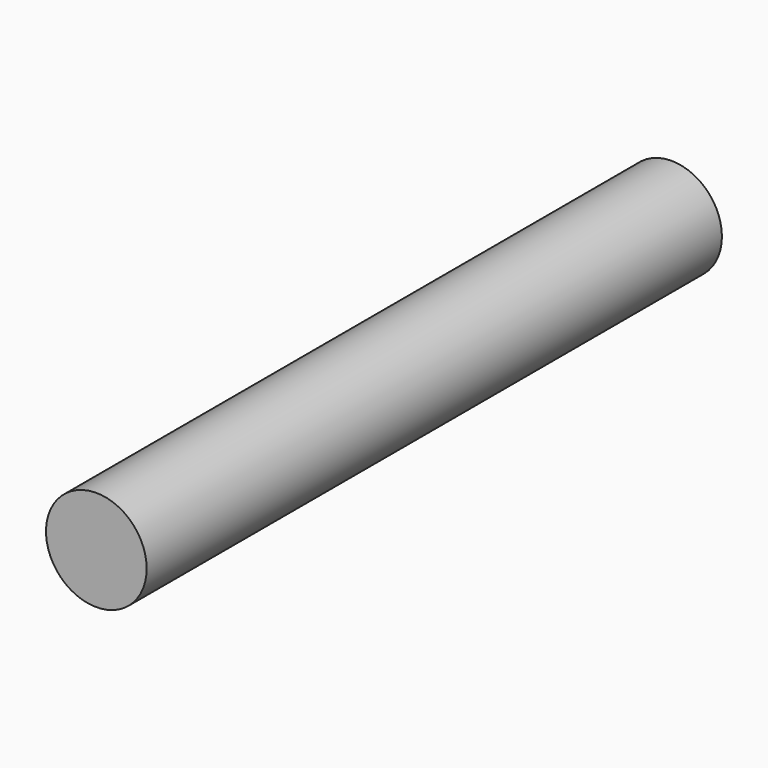
from build123d import *

# Parameters (mm, degrees)
CYLINDER_R     = 0.35
CYLINDER_DEPTH = 5


with BuildPart() as part:
    # Cylinder → Cylinder (new body)
    with BuildSketch(Plane.XZ.offset(-4.3)):
        Circle(CYLINDER_R)
    extrude(amount=CYLINDER_DEPTH)


solid = part.part
